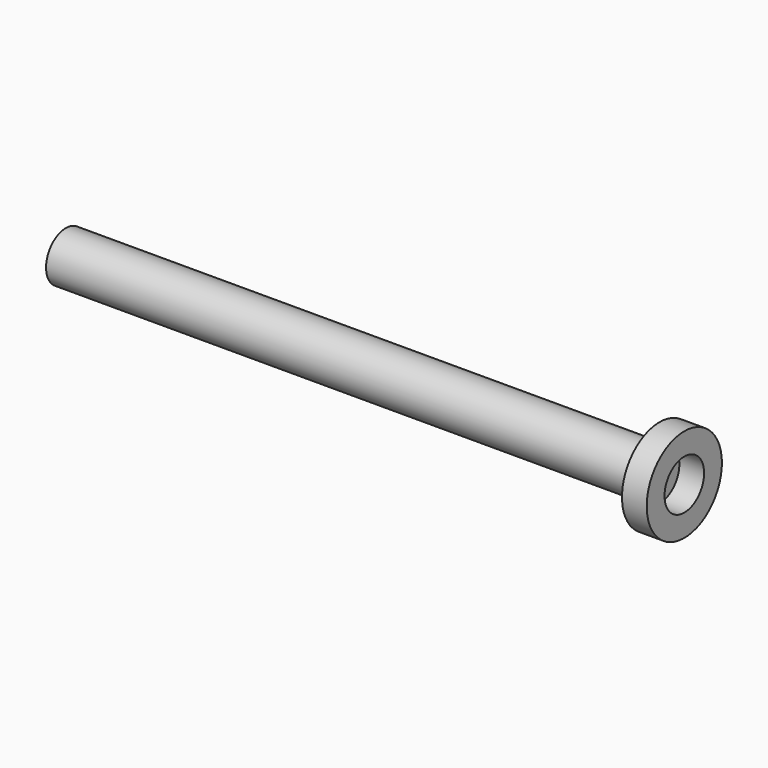
from build123d import *

# Parameters (mm, degrees)
F0_R     = 5
F1_DEPTH = 120
F2_R     = 9.5
F2_R_2   = 5
F3_DEPTH = 5


with BuildPart() as f1:
    # F0 (on Right) → F1 (new body)
    with BuildSketch(Plane.YZ):
        Circle(F0_R)
    extrude(amount=F1_DEPTH)


with BuildPart() as f3:
    # F2 (on face) → F3 (new body)
    with BuildSketch(Plane.YZ.offset(120)):
        Circle(F2_R)
        Circle(F2_R_2, mode=Mode.SUBTRACT)
    extrude(amount=F3_DEPTH)


solid = Compound([f1.part, f3.part])
